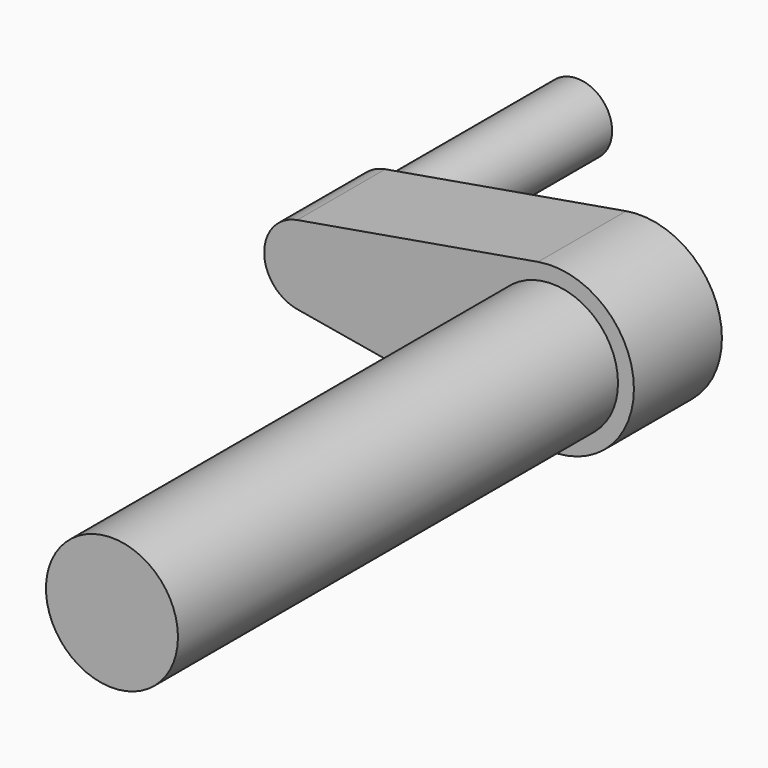
from build123d import *

# Parameters (mm, degrees)
F0_R     = 15.24
F1_DEPTH = 152.4
F3_DEPTH = 25.4
F4_R     = 8.05635
F5_DEPTH = 50.8


with BuildPart() as f1:
    # F0 (on Front) → F1 (new body)
    with BuildSketch(Plane.XZ):
        Circle(F0_R)
    extrude(amount=F1_DEPTH)

    # F2 (on Front) → F3 (join)
    with BuildSketch(Plane.XZ):
        with BuildLine():
            Line((-58.810396, -9.067713), (-3.208219, -18.63846))
            ThreePointArc((-3.208219, -18.63846), (18.912558, 0), (-3.208219, 18.63846))
            Line((-3.208219, 18.63846), (-58.810396, 9.067713))
            ThreePointArc((-58.810396, 9.067713), (-66.450643, 0), (-58.810396, -9.067713))
        make_face()
    extrude(amount=F3_DEPTH)

    # F4 (on Front) → F5 (join)
    with BuildSketch(Plane.XZ):
        with Locations((-55.136111, 0)):
            Circle(F4_R)
    extrude(amount=-F5_DEPTH)


solid = f1.part
